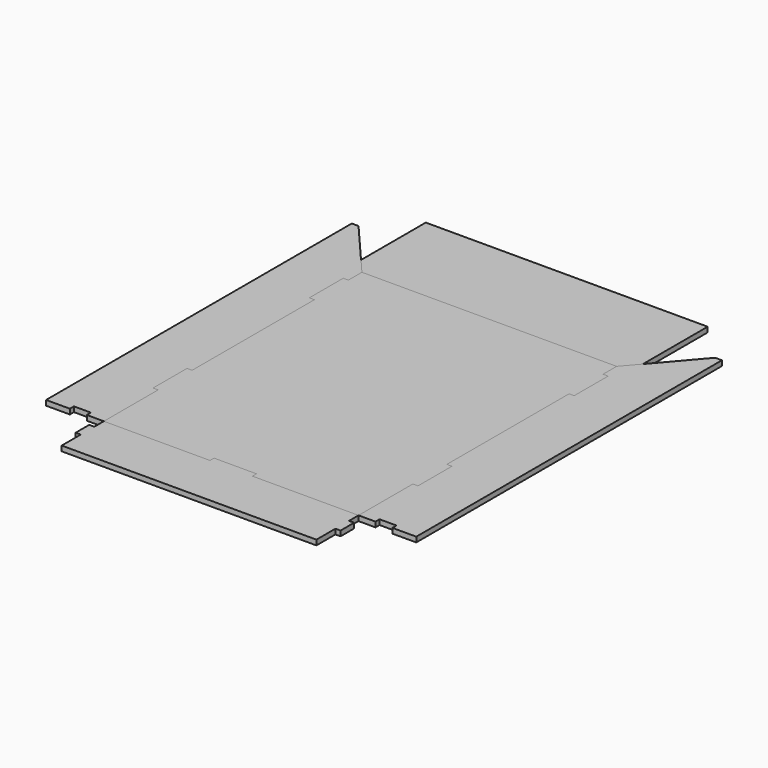
from build123d import *

# Parameters (mm, degrees)
F1_DEPTH = 3
F2_DEPTH = 3
F3_DEPTH = 3


with BuildPart() as f1:
    # F0 (on Top) → F1 (new body)
    with BuildSketch(Plane.XY):
        Polygon((75, 40), (75, 0), (85, 0), (85, 3), (95, 3), (95, 0), (105, 0), (109, 0), (109, 225), (105, 225), (83, 199.333333), (75, 190), (75, 180), (78, 180), (78, 155), (75, 155), (75, 65), (78, 65), (78, 40), align=None)
        Polygon((-12.5, 3), (-12.5, 0), (-75, 0), (-75, -7), (-78, -7), (-78, -17), (-75, -17), (-75, -31), (0, -31), (75, -31), (75, -17), (78, -17), (78, -7), (75, -7), (75, 0), (12.5, 0), (12.5, 3), (0, 3), align=None)
        Polygon((-85, 0), (-75, 0), (-75, 40), (-78, 40), (-78, 65), (-75, 65), (-75, 155), (-78, 155), (-78, 180), (-75, 180), (-75, 190), (-83, 199.333333), (-105, 225), (-109, 225), (-109, 0), (-105, 0), (-95, 0), (-95, 3), (-85, 3), align=None)
    extrude(amount=F1_DEPTH)


with BuildPart() as f2:
    # F0 (on Top) → F2 (new body)
    with BuildSketch(Plane.XY):
        Polygon((-75, 0), (-12.5, 0), (-12.5, 3), (0, 3), (12.5, 3), (12.5, 0), (75, 0), (75, 40), (78, 40), (78, 65), (75, 65), (75, 155), (78, 155), (78, 180), (75, 180), (75, 190), (0, 190), (-75, 190), (-75, 180), (-78, 180), (-78, 155), (-75, 155), (-75, 65), (-78, 65), (-78, 40), (-75, 40), align=None)
    extrude(amount=F2_DEPTH)


with BuildPart() as f3:
    # F0 (on Top) → F3 (new body)
    with BuildSketch(Plane.XY):
        Polygon((-83, 199.333333), (-75, 190), (0, 190), (75, 190), (83, 199.333333), (83, 247), (-83, 247), align=None)
    extrude(amount=F3_DEPTH)


solid = Compound([f1.part, f2.part, f3.part])
